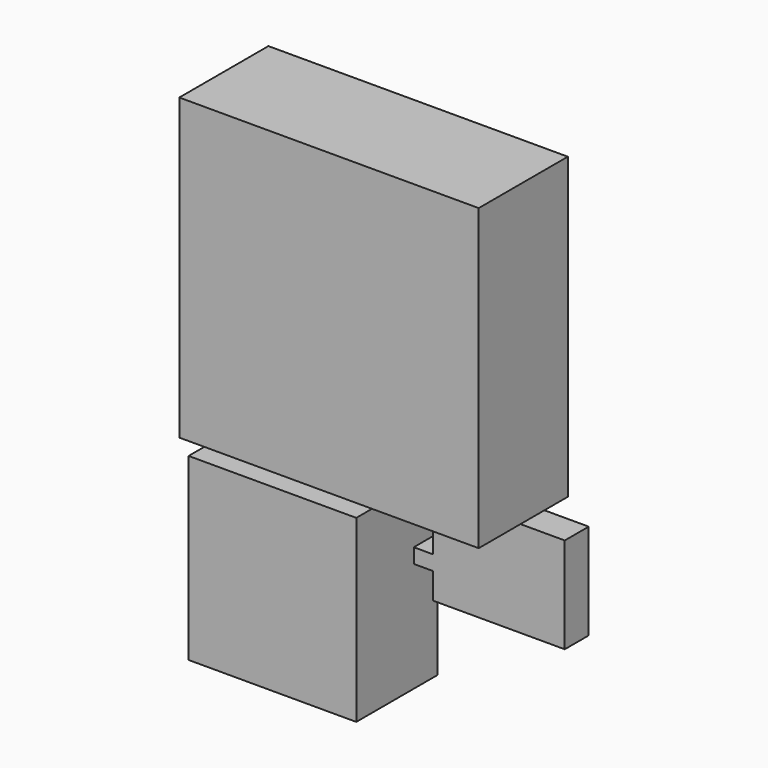
from build123d import *

# Parameters (mm, degrees)
F1_DEPTH = 85
F0_W     = 13.8709768653
F0_H     = 16.2702709436
F0_W_2   = 16.0746378824
F0_H_2   = 12.2704952955
F2_DEPTH = 25
F3_DEPTH = 93
F4_DEPTH = 25


with BuildPart() as f1:
    # F0 (on Front) → F1 (new body)
    with BuildSketch(Plane.XZ):
        Polygon((-61.2078905106, -141.2702709436), (-75.0788673759, -141.2702709436), (-123.6273050308, -141.2702709436), (-123.6273050308, -291.2702709436), (16.3726949692, -291.2702709436), (16.3726949692, -199.5083987713), (16.3726949692, -187.2379034758), (16.3726949692, -141.2702709436), align=None)
    extrude(amount=F1_DEPTH)

    # F0 (on Front) → F2 (join)
    with BuildSketch(Plane.XZ):
        with Locations((-68.1433789432, -133.1351354718)):
            Rectangle(F0_W, F0_H)
        with Locations((24.4100139104, -193.3731511235)):
            Rectangle(F0_W_2, F0_H_2)
    extrude(amount=F2_DEPTH)

    # F0 (on Front) → F3 (join)
    with BuildSketch(Plane.XZ):
        Polygon((125, 125), (-125, 125), (-125, -125), (-75.0788673759, -125), (-61.2078905106, -125), (125, -125), align=None)
    extrude(amount=F3_DEPTH)

    # F0 (on Front) → F4 (join)
    with BuildSketch(Plane.XZ):
        Polygon((32.4473328516, -141.2702709436), (32.4473328516, -187.2379034758), (32.4473328516, -199.5083987713), (32.4473328516, -221.2702709436), (142.4473328516, -221.2702709436), (142.4473328516, -141.2702709436), align=None)
    extrude(amount=F4_DEPTH)


solid = f1.part
